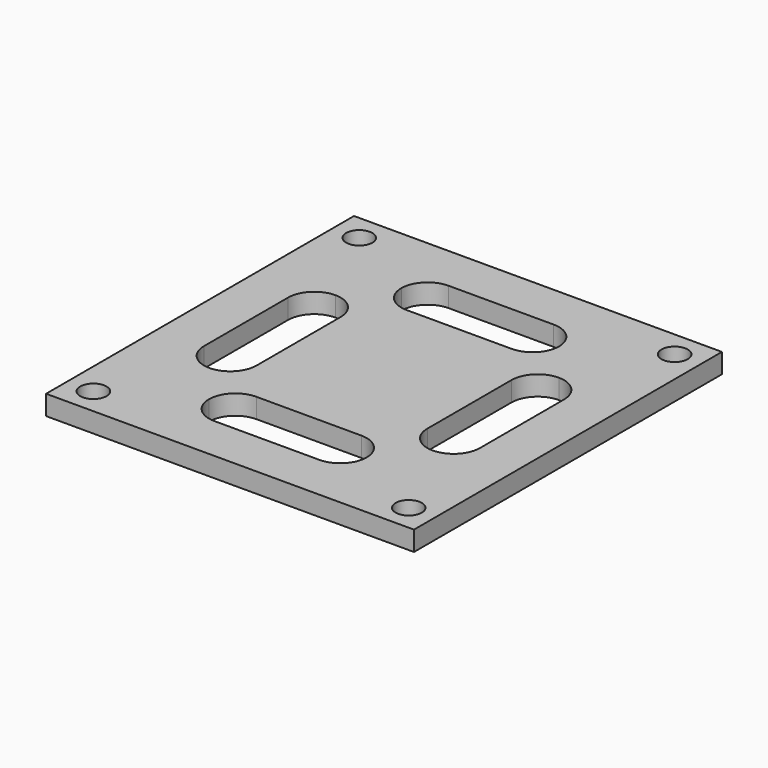
from build123d import *

# Parameters (mm, degrees)
F0_W     = 28
F0_H     = 29.295146
F0_R     = 1
F1_DEPTH = 1.5


with BuildPart() as f1:
    # F0 (on Top) → F1 (new body)
    with BuildSketch(Plane.XY):
        Rectangle(F0_W, F0_H)
        with Locations((-12, -12.647573)):
            Circle(F0_R, mode=Mode.SUBTRACT)
        with BuildLine():
            ThreePointArc((-10.5, 4), (-9.914214, 5.414214), (-8.5, 6))
            ThreePointArc((-8.5, 6), (-7.085786, 5.414214), (-6.5, 4))
            Line((-6.5, 4), (-6.5, -4))
            ThreePointArc((-6.5, -4), (-7.085786, -5.414214), (-8.5, -6))
            ThreePointArc((-8.5, -6), (-9.914214, -5.414214), (-10.5, -4))
            Line((-10.5, -4), (-10.5, 4))
        make_face(mode=Mode.SUBTRACT)
        with BuildLine():
            Line((4, -11.147573), (-4, -11.147573))
            ThreePointArc((-4, -11.147573), (-5.414214, -10.561787), (-6, -9.147573))
            ThreePointArc((-6, -9.147573), (-5.414214, -7.733359), (-4, -7.147573))
            Line((-4, -7.147573), (4, -7.147573))
            ThreePointArc((4, -7.147573), (5.414214, -7.733359), (6, -9.147573))
            ThreePointArc((6, -9.147573), (5.414214, -10.561787), (4, -11.147573))
        make_face(mode=Mode.SUBTRACT)
        with Locations((12, -12.647573)):
            Circle(F0_R, mode=Mode.SUBTRACT)
        with BuildLine():
            ThreePointArc((6.5, 4), (7.085786, 5.414214), (8.5, 6))
            ThreePointArc((8.5, 6), (9.914214, 5.414214), (10.5, 4))
            Line((10.5, 4), (10.5, -4))
            ThreePointArc((10.5, -4), (9.914214, -5.414214), (8.5, -6))
            ThreePointArc((8.5, -6), (7.085786, -5.414214), (6.5, -4))
            Line((6.5, -4), (6.5, 4))
        make_face(mode=Mode.SUBTRACT)
        with Locations((-12, 12.647573)):
            Circle(F0_R, mode=Mode.SUBTRACT)
        with BuildLine():
            ThreePointArc((-6, 9.147573), (-5.414214, 10.561787), (-4, 11.147573))
            Line((-4, 11.147573), (4, 11.147573))
            ThreePointArc((4, 11.147573), (5.414214, 10.561787), (6, 9.147573))
            ThreePointArc((6, 9.147573), (5.414214, 7.733359), (4, 7.147573))
            Line((4, 7.147573), (-4, 7.147573))
            ThreePointArc((-4, 7.147573), (-5.414214, 7.733359), (-6, 9.147573))
        make_face(mode=Mode.SUBTRACT)
        with Locations((12, 12.647573)):
            Circle(F0_R, mode=Mode.SUBTRACT)
    extrude(amount=F1_DEPTH)


solid = f1.part
